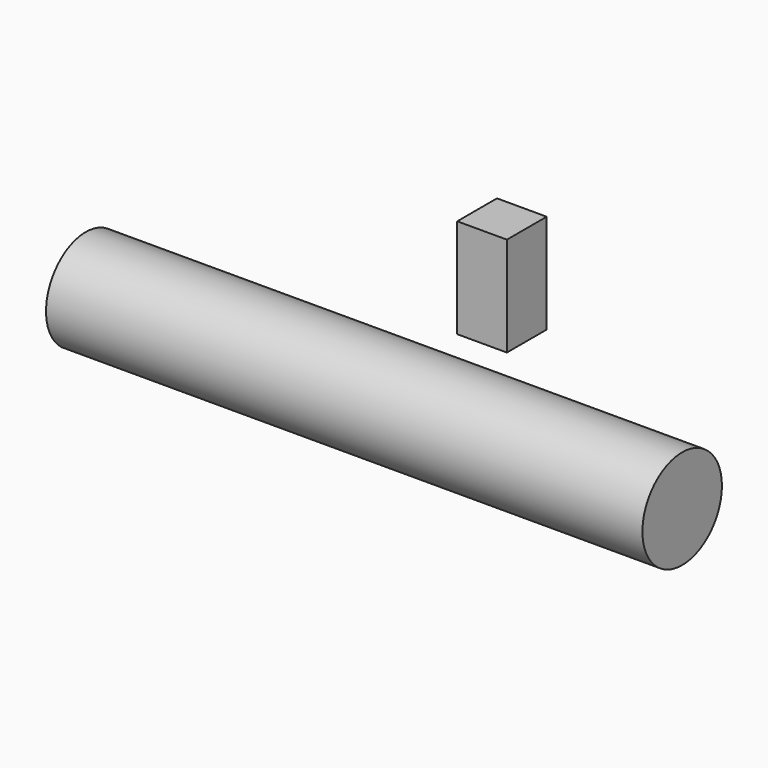
from build123d import *

# Parameters (mm, degrees)
F0_R      = 12.7
F1_DEPTH  = 76.2
F1_FACE_R = 12.7
F2_DEPTH  = 76.2
F3_W      = 12.7
F3_H      = 25.4
F4_DEPTH  = 12.7


with BuildPart() as f1:
    # F0 (on Right) → F1 (new body)
    with BuildSketch(Plane.YZ):
        with Locations((-40.985581, 40.894877)):
            Circle(F0_R)
    extrude(amount=F1_DEPTH)

    # F1_face (on face) → F2 (join)
    with BuildSketch(Plane(origin=(0, -40.985581, 40.894877), x_dir=(0, 1, 0), z_dir=(-1, 0, 0))):
        Circle(F1_FACE_R)
    extrude(amount=F2_DEPTH)


with BuildPart() as f4:
    # F3 (on Right) → F4 (new body)
    with BuildSketch(Plane.YZ):
        with Locations((-11.238228, 58.56257)):
            Rectangle(F3_W, F3_H)
    extrude(amount=F4_DEPTH)


solid = Compound([f1.part, f4.part])
